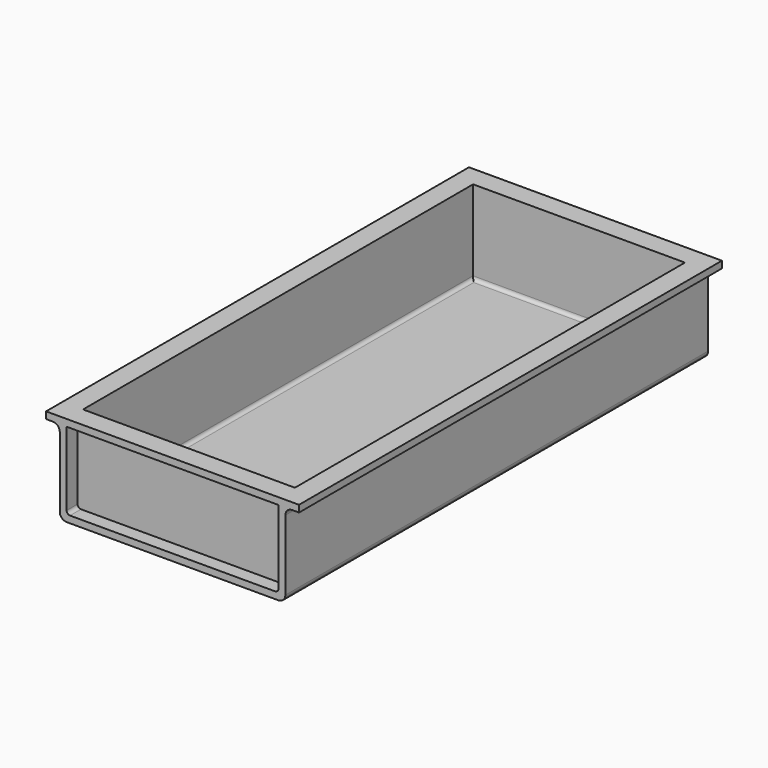
from build123d import *

# Parameters (mm, degrees)
F3_DEPTH      = 245.2
F3_DEPTH_BACK = 245.2
F4_DEPTH      = 98.275
F4_DEPTH_BACK = 98.275


with BuildPart() as f3:
    # F1 (on Front) → F3 (new body, two sides)
    with BuildSketch(Plane.XZ) as f3_sk:
        with BuildLine():
            Line((-98.275, 0), (-104.625, 0))
            Line((-104.625, 0), (-117.325, 0))
            Line((-117.325, 0), (-117.325, -6.35))
            Line((-117.325, -6.35), (-110.975, -6.35))
            ThreePointArc((-110.975, -6.35), (-106.4848719395, -8.2098719395), (-104.625, -12.7))
            Line((-104.625, -12.7), (-104.625, -77.9))
            ThreePointArc((-104.625, -77.9), (-102.7651280605, -82.3901280605), (-98.275, -84.25))
            Line((-98.275, -84.25), (98.275, -84.25))
            ThreePointArc((98.275, -84.25), (102.7651280605, -82.3901280605), (104.625, -77.9))
            Line((104.625, -77.9), (104.625, -12.7))
            ThreePointArc((104.625, -12.7), (106.4848719395, -8.2098719395), (110.975, -6.35))
            Line((110.975, -6.35), (117.325, -6.35))
            Line((117.325, -6.35), (117.325, 0))
            Line((117.325, 0), (104.625, 0))
            Line((104.625, 0), (98.275, 0))
            Line((98.275, 0), (98.275, -74.725))
            ThreePointArc((98.275, -74.725), (97.3450640303, -76.9700640303), (95.1, -77.9))
            Line((95.1, -77.9), (-95.1, -77.9))
            ThreePointArc((-95.1, -77.9), (-97.3450640303, -76.9700640303), (-98.275, -74.725))
            Line((-98.275, -74.725), (-98.275, 0))
        make_face()
    extrude(amount=-F3_DEPTH)
    extrude(f3_sk.sketch, amount=F3_DEPTH_BACK)

    # F2 (on Right) → F4 (join, two sides)
    with BuildSketch(Plane.YZ) as f4_sk:
        with BuildLine():
            Line((-226.15, 0), (-232.5, 0))
            Line((-232.5, 0), (-245.2, 0))
            Line((-245.2, 0), (-245.2, -6.35))
            Line((-245.2, -6.35), (-238.85, -6.35))
            ThreePointArc((-238.85, -6.35), (-234.3598719395, -8.2098719395), (-232.5, -12.7))
            Line((-232.5, -12.7), (-232.5, -77.9))
            ThreePointArc((-232.5, -77.9), (-230.6401280605, -82.3901280605), (-226.15, -84.25))
            Line((-226.15, -84.25), (226.15, -84.25))
            ThreePointArc((226.15, -84.25), (230.6401280605, -82.3901280605), (232.5, -77.9))
            Line((232.5, -77.9), (232.5, -12.7))
            ThreePointArc((232.5, -12.7), (234.3598719395, -8.2098719395), (238.85, -6.35))
            Line((238.85, -6.35), (245.2, -6.35))
            Line((245.2, -6.35), (245.2, 0))
            Line((245.2, 0), (232.5, 0))
            Line((232.5, 0), (226.15, 0))
            Line((226.15, 0), (226.15, -74.725))
            ThreePointArc((226.15, -74.725), (225.2200640303, -76.9700640303), (222.975, -77.9))
            Line((222.975, -77.9), (-222.975, -77.9))
            ThreePointArc((-222.975, -77.9), (-225.2200640303, -76.9700640303), (-226.15, -74.725))
            Line((-226.15, -74.725), (-226.15, 0))
        make_face()
    extrude(amount=F4_DEPTH)
    extrude(f4_sk.sketch, amount=-F4_DEPTH_BACK)


solid = f3.part
